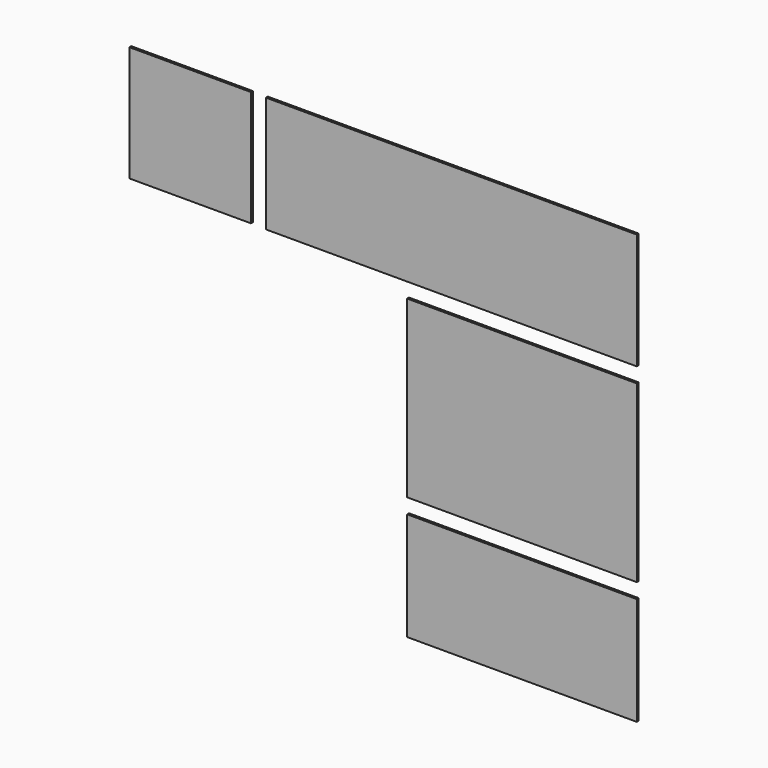
from build123d import *

# Parameters (mm, degrees)
F0_W     = 825.5
F0_H     = 784.225
F0_W_2   = 2517.775
F0_H_2   = 787.4
F0_W_3   = 1558.925
F0_H_3   = 1187.45
F0_H_4   = 733.425
F1_DEPTH = 15.875


with BuildPart() as f1:
    # F0 (on Front) → F1 (new body)
    with BuildSketch(Plane.XZ):
        with Locations((-412.75, 2519.3625)):
            Rectangle(F0_W, F0_H)
        with Locations((1360.4875, 2517.775)):
            Rectangle(F0_W_2, F0_H_2)
        with Locations((1839.9125, 1428.75)):
            Rectangle(F0_W_3, F0_H_3)
        with Locations((1839.9125, 366.7125)):
            Rectangle(F0_W_3, F0_H_4)
    extrude(amount=F1_DEPTH)


solid = f1.part
